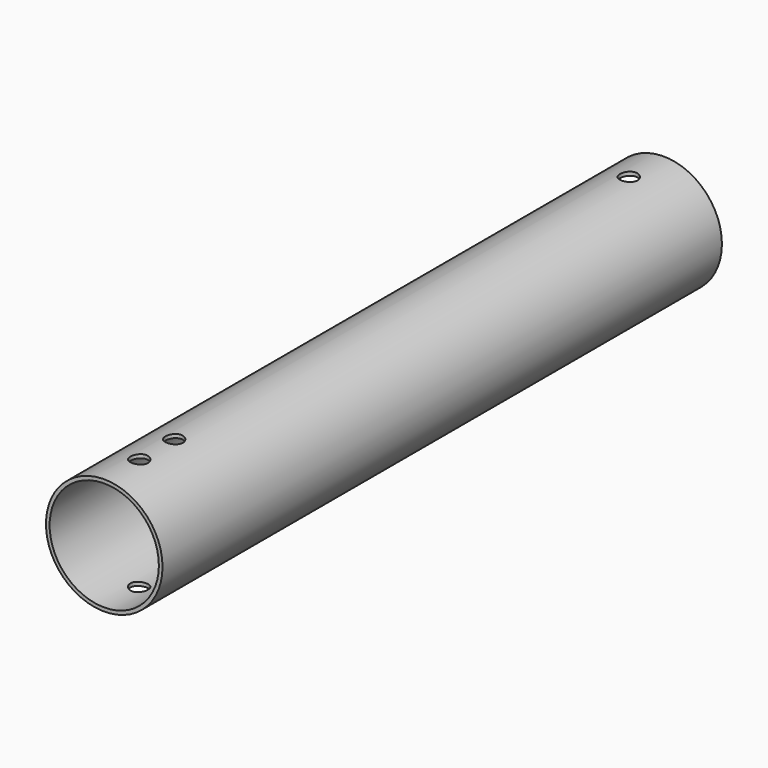
from build123d import *

# Parameters (mm, degrees)
F0_R          = 25.4
F0_R_2        = 23.8125
F1_DEPTH      = 304.8
F3_R          = 3.81
F4_DEPTH      = 25.4
F4_DEPTH_BACK = 25.4


with BuildPart() as f1:
    # F0 (on Front) → F1 (new body)
    with BuildSketch(Plane.XZ):
        Circle(F0_R)
        Circle(F0_R_2, mode=Mode.SUBTRACT)
    extrude(amount=-F1_DEPTH)

    # F3 (on Top) → F4 (cut, two sides)
    with BuildSketch(Plane.XY) as f4_sk:
        with Locations((0, 19.05)):
            Circle(F3_R)
        with Locations((0, 285.75)):
            Circle(F3_R)
        with Locations((0, 38.1)):
            Circle(F3_R)
    extrude(amount=F4_DEPTH, mode=Mode.SUBTRACT)
    extrude(f4_sk.sketch, amount=-F4_DEPTH_BACK, mode=Mode.SUBTRACT)


solid = f1.part
